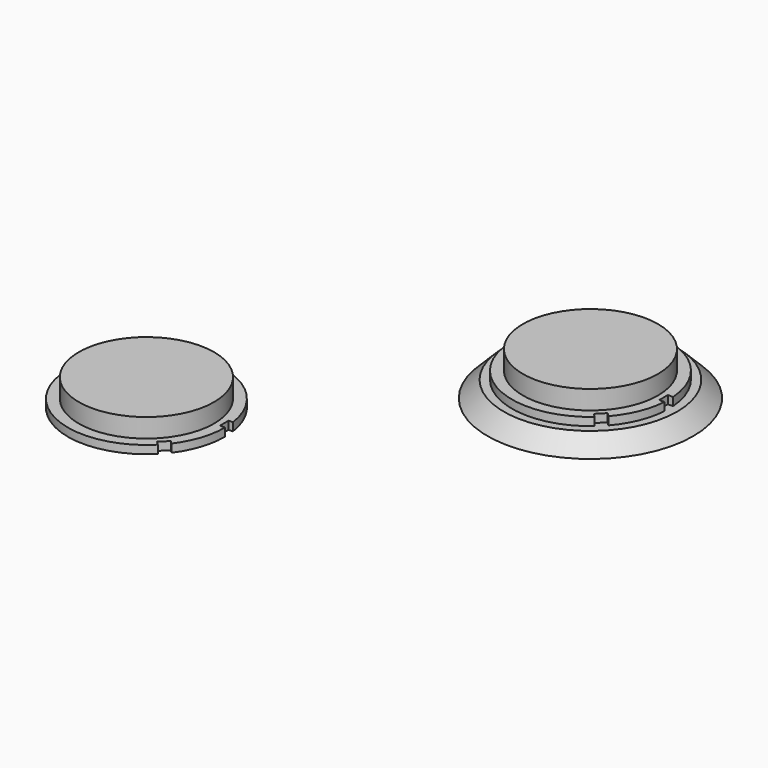
from build123d import *

# Parameters (mm, degrees)
F0_R      = 19
F2_R      = 16
F4_R      = 14.5
F5_DEPTH  = 1.5
F6_R      = 12.489408
F7_DEPTH  = 3.5
F8_W      = 1.060285
F8_H      = 2
F9_DEPTH  = 1.5
F10_R     = 14.5
F11_DEPTH = 1.5
F12_R     = 12.5
F13_DEPTH = 3.5
F14_W     = 1.355736
F14_H     = 2
F15_DEPTH = 1.5


with BuildPart() as f3:
    # F0 (on Top) → F3 section 0
    with BuildSketch(Plane.XY):
        Circle(F0_R)
    # F2 (on offset) → F3 section 1
    with BuildSketch(Plane.XY.offset(3)):
        Circle(F2_R)
    loft()

    # F4 (on face) → F5 (join)
    with BuildSketch(Plane.XY.offset(3)):
        Circle(F4_R)
    extrude(amount=F5_DEPTH)

    # F6 (on face) → F7 (join)
    with BuildSketch(Plane.XY.offset(4.5)):
        Circle(F6_R)
    extrude(amount=F7_DEPTH)

    # F8 (on face) → F9 (cut)
    with BuildSketch(Plane.XY.offset(4.5)):
        Polygon((11.005462, -9.591248), (10.255727, -8.841514), (8.841514, -10.255727), (9.591248, -11.005462), align=None)
        with Locations((14.033931, 0)):
            Rectangle(F8_W, F8_H)
    extrude(amount=-F9_DEPTH, mode=Mode.SUBTRACT)


with BuildPart() as f11:
    # F10 (on offset) → F11 (new body)
    with BuildSketch(Plane.XY.offset(3)):
        with Locations((-44.54045, -46.866324)):
            Circle(F10_R)
    extrude(amount=F11_DEPTH)

    # F12 (on face) → F13 (join)
    with BuildSketch(Plane.XY.offset(4.5)):
        with Locations((-44.54045, -46.866324)):
            Circle(F12_R)
    extrude(amount=F13_DEPTH)

    # F14 (on face) → F15 (cut)
    with BuildSketch(Plane.XY.offset(4.5)):
        Polygon((-32.550831, -55.974755), (-33.509481, -55.016105), (-34.923695, -56.430319), (-33.965045, -57.388969), align=None)
        with Locations((-30.299744, -45.829017)):
            Rectangle(F14_W, F14_H)
    extrude(amount=-F15_DEPTH, mode=Mode.SUBTRACT)


solid = Compound([f3.part, f11.part])
